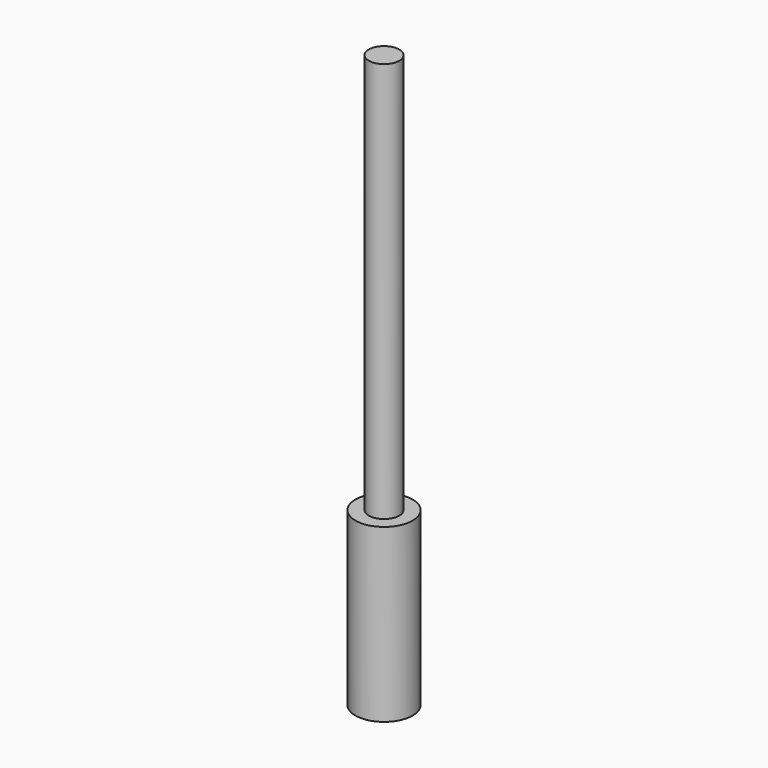
from build123d import *

# Parameters (mm, degrees)
F0_R     = 4
F1_DEPTH = 150
F2_R     = 7.5
F2_R_2   = 4
F3_DEPTH = 45


with BuildPart() as f1:
    # F0 (on Top) → F1 (new body)
    with BuildSketch(Plane.XY):
        Circle(F0_R)
    extrude(amount=F1_DEPTH)


with BuildPart() as f3:
    # F2 (on Top) → F3 (new body)
    with BuildSketch(Plane.XY):
        Circle(F2_R)
        Circle(F2_R_2, mode=Mode.SUBTRACT)
    extrude(amount=F3_DEPTH)


solid = Compound([f1.part, f3.part])
